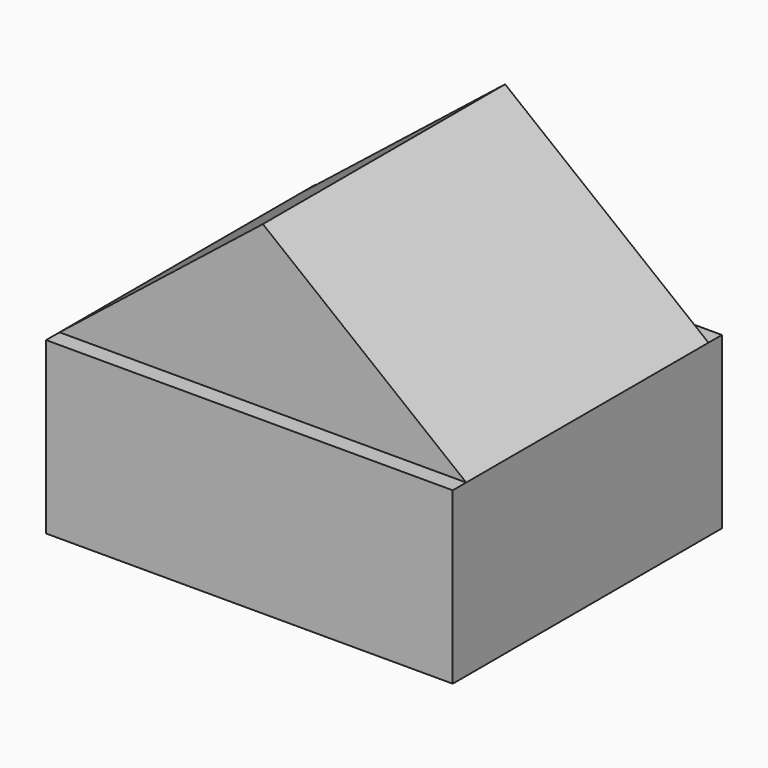
from build123d import *

# Parameters (mm, degrees)
F1_DEPTH = 34.29
F0_W     = 92.097842
F0_H     = 38.56597
F2_DEPTH = 38.1


with BuildPart() as f1:
    # F0 (on Front) → F1 (new body, symmetric)
    with BuildSketch(Plane.XZ):
        Polygon((0, 55.834316), (-46.048921, 19.282985), (46.048921, 19.282985), align=None)
    extrude(amount=F1_DEPTH, both=True)

    # F0 (on Front) → F2 (join, symmetric)
    with BuildSketch(Plane.XZ):
        Rectangle(F0_W, F0_H)
    extrude(amount=F2_DEPTH, both=True)


solid = f1.part
